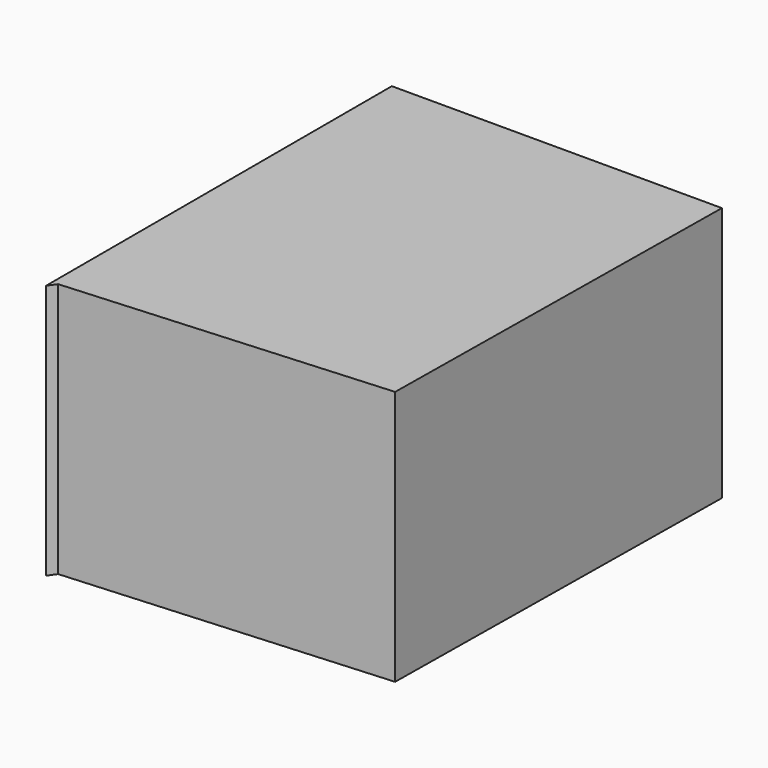
from build123d import *

# Parameters (mm, degrees)
F2_DEPTH = 57.031512


with BuildPart() as f2:
    # F1 (on face) → F2 (new body)
    with BuildSketch(Plane.XY):
        Polygon((34.151942, 53.595204), (-39.598435, 53.595204), (-39.598435, -42.964548), (-38.33124, -41.19049), (33.011451, -36.248446), align=None)
    extrude(amount=F2_DEPTH)


solid = f2.part
